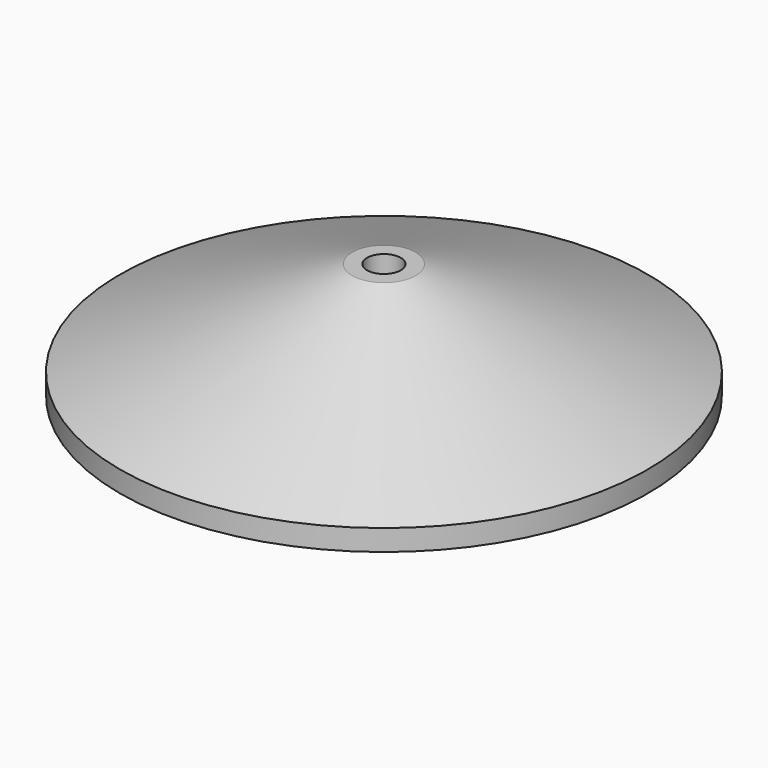
from build123d import *


with BuildPart() as part:
    # Sketch002 → Revolution (revolve)
    with BuildSketch(Plane.YZ):
        Polygon((1.6, 11.000438), (1.6, 0), (25, 0), (25, 2), (3, 11.000438), align=None)
    revolve(axis=Axis((0, 0, 0), (0, 0, 1)))


solid = part.part
